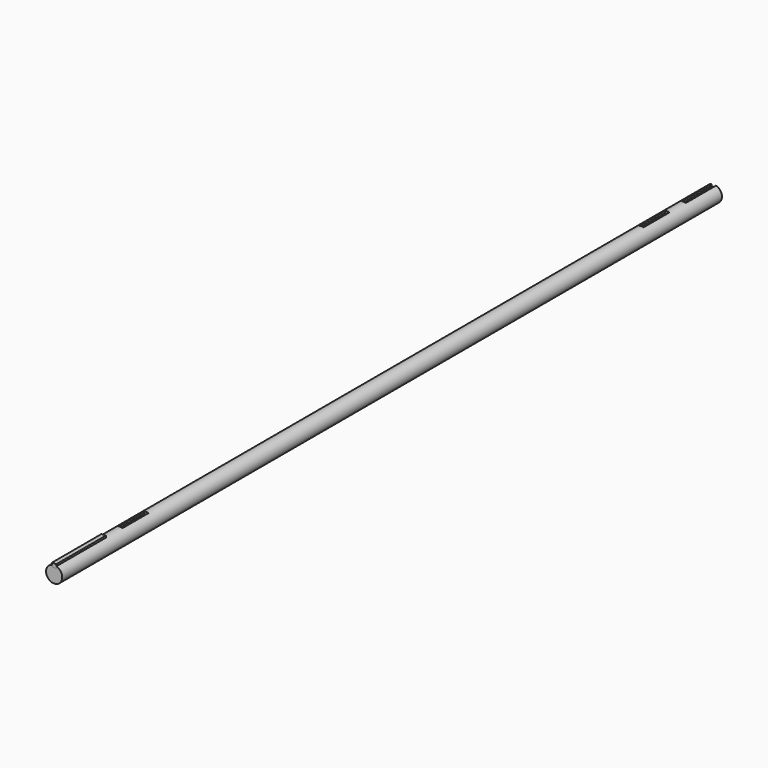
from build123d import *

# Parameters (mm, degrees)
F0_R     = 15
F1_DEPTH = 766
F3_W     = 8
F3_H     = 70
F3_H_2   = 60
F3_H_3   = 115
F4_DEPTH = 4
F5_DEPTH = 7


with BuildPart() as f1:
    # F0 (on Front) → F1 (new body, symmetric)
    with BuildSketch(Plane.XZ):
        Circle(F0_R)
    extrude(amount=F1_DEPTH, both=True)

    # F3 (on offset) → F4 (cut)
    with BuildSketch(Plane.XY.offset(15)):
        with Locations((0, 731)):
            Rectangle(F3_W, F3_H)
        with Locations((0, -582)):
            Rectangle(F3_W, F3_H_2)
        with Locations((0, -708.5)):
            Rectangle(F3_W, F3_H_3)
        with Locations((0, 628)):
            Rectangle(F3_W, F3_H_2)
    extrude(amount=-F4_DEPTH, mode=Mode.SUBTRACT)


with BuildPart() as f5:
    # F5 (new): a face of the model
    f5_faces = [f1.part.faces().sort_by_distance(p)[0] for p in [
        (0, -708.5, 11),
    ]]
    extrude(f5_faces, amount=F5_DEPTH)


solid = Compound([f1.part, f5.part])
